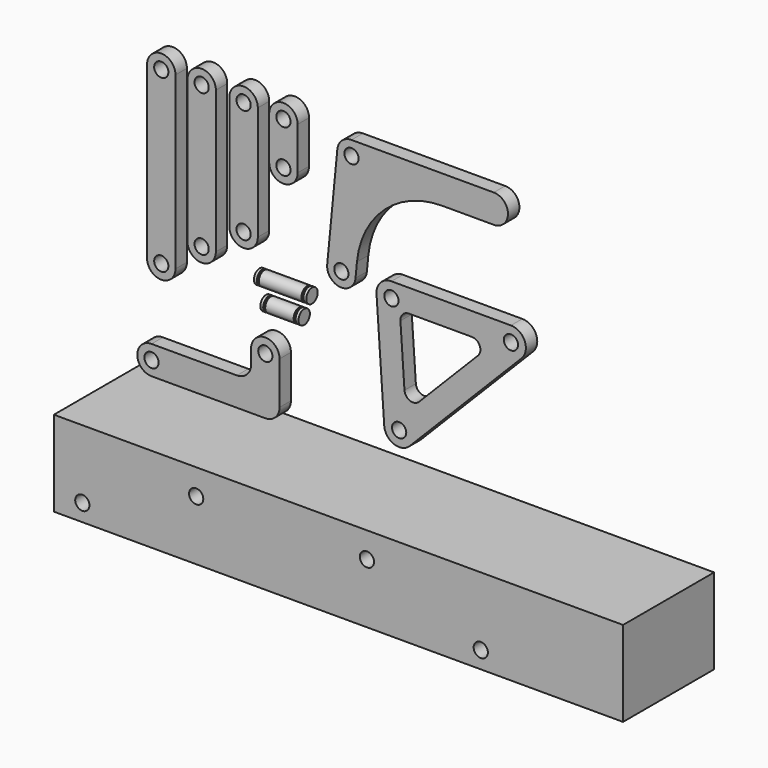
from build123d import *

# Parameters (mm, degrees)
F2_R      = 2.5
F3_DEPTH  = 2.5
F4_R      = 2.5
F5_DEPTH  = 2.5
F6_R      = 2.5
F7_DEPTH  = 2.5
F8_R      = 2.5
F9_DEPTH  = 2.5
F10_R     = 2.5
F11_DEPTH = 2.5
F12_R     = 2.5
F13_DEPTH = 2.5
F18_R     = 2.5
F19_DEPTH = 2.5
F20_W     = 200
F20_H     = 30
F21_DEPTH = 20
F22_R     = 2.5
F23_DEPTH = 40


with BuildPart() as f3:
    # F2 (on Front) → F3 (new body, symmetric)
    with BuildSketch(Plane.XZ):
        with BuildLine():
            ThreePointArc((-18.3457694519, 51.2248277664), (-13.3457694519, 46.2248277664), (-8.3457694519, 51.2248277664))
            Line((-8.3457694519, 51.2248277664), (-8.3457694519, 66.2248277664))
            ThreePointArc((-8.3457694519, 66.2248277664), (-13.3457694519, 71.2248277664), (-18.3457694519, 66.2248277664))
            Line((-18.3457694519, 66.2248277664), (-18.3457694519, 51.2248277664))
        make_face()
        with Locations((-13.3457694519, 51.2248277664)):
            Circle(F2_R, mode=Mode.SUBTRACT)
        with Locations((-13.3457694519, 66.2248277664)):
            Circle(F2_R, mode=Mode.SUBTRACT)
    extrude(amount=F3_DEPTH, both=True)


with BuildPart() as f5:
    # F4 (on Front) → F5 (new body, symmetric)
    with BuildSketch(Plane.XZ):
        with BuildLine():
            ThreePointArc((-22.3385662585, 66.7787333578), (-27.3385662585, 71.7787333578), (-32.3385662585, 66.7787333578))
            Line((-32.3385662585, 66.7787333578), (-32.3385662585, 26.7787333578))
            ThreePointArc((-32.3385662585, 26.7787333578), (-27.3385662585, 21.7787333578), (-22.3385662585, 26.7787333578))
            Line((-22.3385662585, 26.7787333578), (-22.3385662585, 66.7787333578))
        make_face()
        with Locations((-27.3385662585, 26.7787333578)):
            Circle(F4_R, mode=Mode.SUBTRACT)
        with Locations((-27.3385662585, 66.7787333578)):
            Circle(F4_R, mode=Mode.SUBTRACT)
    extrude(amount=F5_DEPTH, both=True)


with BuildPart() as f7:
    # F6 (on Front) → F7 (new body, symmetric)
    with BuildSketch(Plane.XZ):
        with BuildLine():
            ThreePointArc((-37.0808680356, 67.4481645226), (-42.0808680356, 72.4481645226), (-47.0808680356, 67.4481645226))
            Line((-47.0808680356, 67.4481645226), (-47.0808680356, 17.4481645226))
            ThreePointArc((-47.0808680356, 17.4481645226), (-42.0808680356, 12.4481645226), (-37.0808680356, 17.4481645226))
            Line((-37.0808680356, 17.4481645226), (-37.0808680356, 67.4481645226))
        make_face()
        with Locations((-42.0808680356, 17.4481645226)):
            Circle(F6_R, mode=Mode.SUBTRACT)
        with Locations((-42.0808680356, 67.4481645226)):
            Circle(F6_R, mode=Mode.SUBTRACT)
    extrude(amount=F7_DEPTH, both=True)


with BuildPart() as f9:
    # F8 (on Front) → F9 (new body, symmetric)
    with BuildSketch(Plane.XZ):
        with BuildLine():
            ThreePointArc((-51.2633313239, 67.5577609241), (-56.2633313239, 72.5577609241), (-61.2633313239, 67.5577609241))
            Line((-61.2633313239, 67.5577609241), (-61.2633313239, 7.5577609241))
            ThreePointArc((-61.2633313239, 7.5577609241), (-56.2633313239, 2.5577609241), (-51.2633313239, 7.5577609241))
            Line((-51.2633313239, 7.5577609241), (-51.2633313239, 67.5577609241))
        make_face()
        with Locations((-56.2633313239, 7.5577609241)):
            Circle(F8_R, mode=Mode.SUBTRACT)
        with Locations((-56.2633313239, 67.5577609241)):
            Circle(F8_R, mode=Mode.SUBTRACT)
    extrude(amount=F9_DEPTH, both=True)


with BuildPart() as f11:
    # F10 (on Front) → F11 (new body, symmetric)
    with BuildSketch(Plane.XZ):
        with BuildLine():
            ThreePointArc((60.5742862523, 57.5499981642), (65.5742862523, 62.5499981642), (60.5742862523, 67.5499981642))
            Line((60.5742862523, 67.5499981642), (10.5742862523, 67.5499981642))
            ThreePointArc((10.5742862523, 67.5499981642), (7.2131410164, 66.2517143476), (5.5974839664, 63.0310792453))
            Line((5.5974839664, 63.0310792453), (2.0374839664, 26.2027423292))
            ThreePointArc((2.0374839664, 26.2027423292), (6.5332051713, 20.7448589622), (11.9910885383, 25.2405801671))
            Line((11.9910885383, 25.2405801671), (12.4933490667, 30.4364846507))
            ThreePointArc((12.4933490667, 30.4364846507), (22.1872913666, 49.7602952648), (42.3541627824, 57.5499981642))
            Line((42.3541627824, 57.5499981642), (60.5742862523, 57.5499981642))
        make_face()
        with Locations((7.0142862523, 25.7216612482)):
            Circle(F10_R, mode=Mode.SUBTRACT)
        with Locations((10.5742862523, 62.5499981642)):
            Circle(F10_R, mode=Mode.SUBTRACT)
    extrude(amount=F11_DEPTH, both=True)


with BuildPart() as f13:
    # F12 (on Front) → F13 (new body, symmetric)
    with BuildSketch(Plane.XZ):
        with BuildLine():
            ThreePointArc((24.6049569845, 28.3832850517), (20.7688556237, 26.7174712888), (19.3671883601, 22.7771745962))
            Line((19.3671883601, 22.7771745962), (22.0814740744, -17.130627311))
            ThreePointArc((22.0814740744, -17.130627311), (25.4953402609, -21.6972418338), (31.060506002, -20.4573302187))
            Line((31.060506002, -20.4573302187), (70.3462202877, 19.4504716885))
            ThreePointArc((70.3462202877, 19.4504716885), (71.4472757908, 25.1614878395), (66.6049569845, 28.3832850517))
            Line((66.6049569845, 28.3832850517), (24.6049569845, 28.3832850517))
        make_face()
        with Locations((27.3192426988, -16.7743861784)):
            Circle(F12_R, mode=Mode.SUBTRACT)
        with BuildLine():
            ThreePointArc((27.7663757955, 17.1797136232), (28.5673484545, 19.4313677789), (30.7594609386, 20.3832850517))
            Line((30.7594609386, 20.3832850517), (52.8756789332, 20.3832850517))
            ThreePointArc((52.8756789332, 20.3832850517), (55.6427871268, 18.5422122474), (55.0135968925, 15.278693215))
            Line((55.0135968925, 15.278693215), (34.3266582921, -5.7358221818))
            ThreePointArc((34.3266582921, -5.7358221818), (31.1464844256, -6.4443607409), (29.1956551897, -3.8348017736))
            Line((29.1956551897, -3.8348017736), (27.7663757955, 17.1797136232))
        make_face(mode=Mode.SUBTRACT)
        with Locations((24.6049569845, 23.1334157288)):
            Circle(F12_R, mode=Mode.SUBTRACT)
        with Locations((66.6049569845, 23.1334157288)):
            Circle(F12_R, mode=Mode.SUBTRACT)
    extrude(amount=F13_DEPTH, both=True)


with BuildPart() as f15:
    # F14 (on Front) → F15 (revolve)
    with BuildSketch(Plane.XZ):
        Polygon((-21.442672649, 8.2208053768), (-21.442672649, 5.7208053768), (-8.042672649, 5.7208053768), (-8.042672649, 8.2208053768), (-9.042672649, 8.2208053768), (-9.042672649, 7.7208053768), (-9.742672649, 7.7208053768), (-9.742672649, 8.2208053768), (-19.742672649, 8.2208053768), (-19.742672649, 7.7208053768), (-20.442672649, 7.7208053768), (-20.442672649, 8.2208053768), align=None)
    revolve(axis=Axis((-14.742672649, 0, 5.7208053768), (-1, 0, 0)))


with BuildPart() as f17:
    # F16 (on Front) → F17 (revolve)
    with BuildSketch(Plane.XZ):
        Polygon((-22.6991458215, 15.6926294416), (-23.6991458215, 15.6926294416), (-23.6991458215, 13.1926294416), (-5.2991458215, 13.1926294416), (-5.2991458215, 15.6926294416), (-6.2991458215, 15.6926294416), (-6.2991458215, 15.1926294416), (-6.9991458215, 15.1926294416), (-6.9991458215, 15.6926294416), (-21.9991458215, 15.6926294416), (-21.9991458215, 15.1926294416), (-22.6991458215, 15.1926294416), align=None)
    revolve(axis=Axis((-14.4991458215, 0, 13.1926294416), (1, 0, 0)))


with BuildPart() as f19:
    # F18 (on Front) → F19 (new body, symmetric)
    with BuildSketch(Plane.XZ):
        with BuildLine():
            Line((-29.7006900609, -18.3994043618), (-59.7006900609, -18.3994043618))
            ThreePointArc((-59.7006900609, -18.3994043618), (-64.7006900609, -23.3994043618), (-59.7006900609, -28.3994043618))
            Line((-59.7006900609, -28.3994043618), (-19.7006900609, -28.3994043618))
            ThreePointArc((-19.7006900609, -28.3994043618), (-16.1651561549, -26.9349382678), (-14.7006900609, -23.3994043618))
            Line((-14.7006900609, -23.3994043618), (-14.7006900609, -8.3994043618))
            ThreePointArc((-14.7006900609, -8.3994043618), (-19.7006900609, -3.3994043618), (-24.7006900609, -8.3994043618))
            Line((-24.7006900609, -8.3994043618), (-24.7006900609, -13.3994043618))
            ThreePointArc((-24.7006900609, -13.3994043618), (-26.1651561549, -16.9349382678), (-29.7006900609, -18.3994043618))
        make_face()
        with Locations((-59.7006900609, -23.3994043618)):
            Circle(F18_R, mode=Mode.SUBTRACT)
        with Locations((-19.7006900609, -8.3994043618)):
            Circle(F18_R, mode=Mode.SUBTRACT)
    extrude(amount=F19_DEPTH, both=True)


with BuildPart() as f21:
    # F20 (on Front) → F21 (new body, symmetric)
    with BuildSketch(Plane.XZ):
        with Locations((20, -54.7858035564)):
            Rectangle(F20_W, F20_H)
    extrude(amount=F21_DEPTH, both=True)

    # F22 (on face) → F23 (cut, through all)
    with BuildSketch(Plane.XZ.offset(20)):
        with Locations((-70, -63.7858035564)):
            Circle(F22_R)
        with Locations((-30, -48.7858035564)):
            Circle(F22_R)
        with Locations((30, -48.7858035564)):
            Circle(F22_R)
        with Locations((70, -63.7858035564)):
            Circle(F22_R)
    extrude(amount=-F23_DEPTH, mode=Mode.SUBTRACT)


solid = Compound([f3.part, f5.part, f7.part, f9.part, f11.part, f13.part, f15.part, f17.part, f19.part, f21.part])
